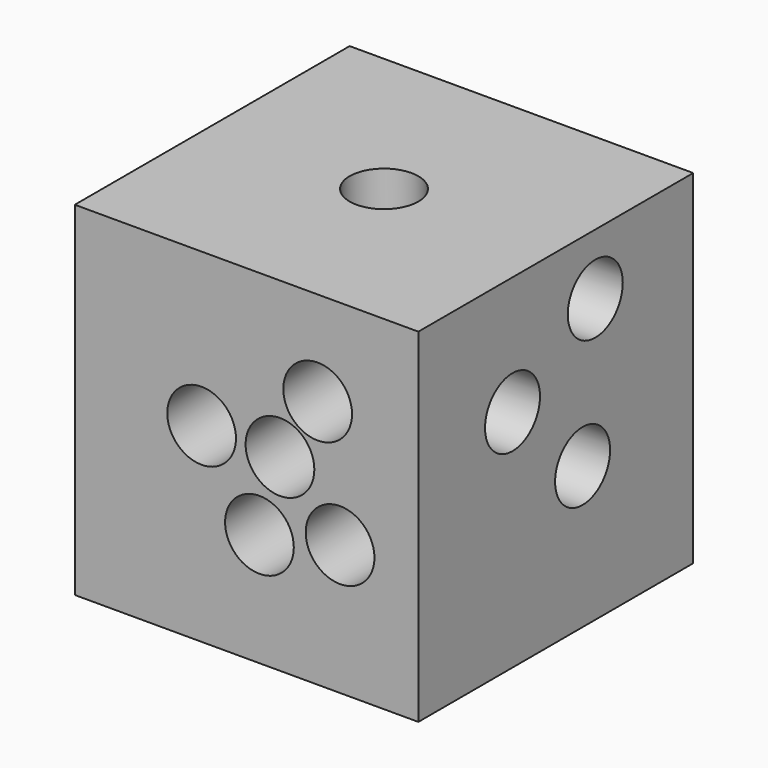
from build123d import *

# Parameters (mm, degrees)
F0_W      = 25.4
F0_H      = 25.4
F1_DEPTH  = 25.4
F2_R      = 2.54
F3_DEPTH  = 5.08
F4_R      = 2.54
F5_DEPTH  = 5.08
F6_R      = 2.54
F7_DEPTH  = 5.08
F8_R      = 2.54
F9_DEPTH  = 5.08
F10_R     = 2.54
F11_DEPTH = 5.08
F12_R     = 2.54
F13_DEPTH = 5.08


with BuildPart() as f1:
    # F0 (on Top) → F1 (new body)
    with BuildSketch(Plane.XY):
        with Locations((-59.602795, 56.880537)):
            Rectangle(F0_W, F0_H)
    extrude(amount=F1_DEPTH)

    # F2 (on face) → F3 (cut)
    with BuildSketch(Plane.XY.offset(25.4)):
        with Locations((-59.602795, 56.880537)):
            Circle(F2_R)
    extrude(amount=-F3_DEPTH, mode=Mode.SUBTRACT)

    # F4 (on face) → F5 (cut)
    with BuildSketch(Plane(origin=(0, 0, 0), x_dir=(1, 0, 0), z_dir=(0, 0, -1))):
        with Locations((-49.83815, -47.431603)):
            Circle(F4_R)
        with Locations((-52.69162, -56.546498)):
            Circle(F4_R)
        with Locations((-61.076983, -63.379836)):
            Circle(F4_R)
        with Locations((-59.676098, -54.622911)):
            Circle(F4_R)
        with Locations((-58.038509, -47.508113)):
            Circle(F4_R)
        with Locations((-67.400003, -52.017386)):
            Circle(F4_R)
    extrude(amount=-F5_DEPTH, mode=Mode.SUBTRACT)

    # F6 (on face) → F7 (cut)
    with BuildSketch(Plane.XZ.offset(-44.180537)):
        with Locations((-54.346551, 18.430941)):
            Circle(F6_R)
        with Locations((-57.132812, 13.917888)):
            Circle(F6_R)
        with Locations((-62.925929, 14.065084)):
            Circle(F6_R)
        with Locations((-52.688606, 9.626121)):
            Circle(F6_R)
        with Locations((-58.651208, 8.356631)):
            Circle(F6_R)
    extrude(amount=-F7_DEPTH, mode=Mode.SUBTRACT)

    # F8 (on face) → F9 (cut)
    with BuildSketch(Plane(origin=(0, 69.580537, 0), x_dir=(-1, 0, 0), z_dir=(0, 1, 0))):
        with Locations((54.121092, 19.861845)):
            Circle(F8_R)
        with Locations((65.96018, 14.58672)):
            Circle(F8_R)
    extrude(amount=-F9_DEPTH, mode=Mode.SUBTRACT)

    # F10 (on face) → F11 (cut)
    with BuildSketch(Plane(origin=(-72.302795, 0, 0), x_dir=(0, -1, 0), z_dir=(-1, 0, 0))):
        with Locations((-61.227512, 12.659161)):
            Circle(F10_R)
        with Locations((-54.416581, 10.093271)):
            Circle(F10_R)
        with Locations((-51.729473, 19.830877)):
            Circle(F10_R)
        with Locations((-63.164286, 19.836891)):
            Circle(F10_R)
    extrude(amount=-F11_DEPTH, mode=Mode.SUBTRACT)

    # F12 (on face) → F13 (cut)
    with BuildSketch(Plane.YZ.offset(-46.902795)):
        with Locations((52.8806, 16.625861)):
            Circle(F12_R)
        with Locations((59.356253, 10.488977)):
            Circle(F12_R)
        with Locations((60.529288, 20.900382)):
            Circle(F12_R)
    extrude(amount=-F13_DEPTH, mode=Mode.SUBTRACT)


solid = f1.part
